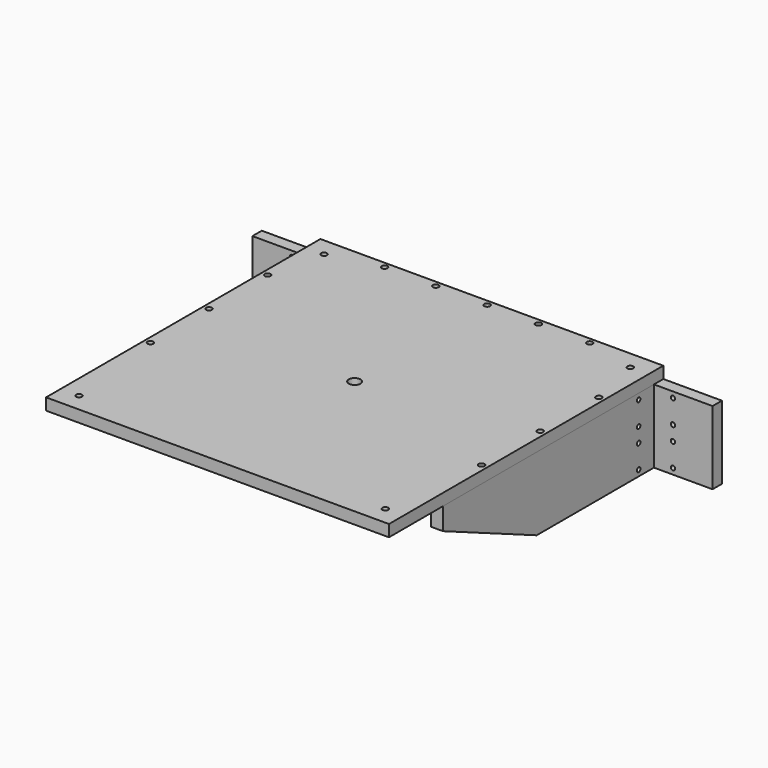
from build123d import *

# Parameters (mm, degrees)
F0_W      = 234
F0_H      = 234
F1_DEPTH  = 8
F2_D      = 4
F3_D      = 8
F4_D      = 4
F6_DEPTH  = 8
F7_D      = 4
F8_D      = 8
F9_D      = 8
F10_D     = 3
F12_DEPTH = 8
F13_D     = 3


with BuildPart() as f1:
    # F0 (on Top) → F1 (new body)
    with BuildSketch(Plane.XY):
        Rectangle(F0_W, F0_H)
    extrude(amount=F1_DEPTH)

    # F2 (through all)
    with Locations(Plane(origin=(0, 0, 0), x_dir=(1, 0, 0), z_dir=(0, 0, -1))):
        with Locations((-104.5, -104.5), (104.5, -104.5), (104.5, 104.5), (-104.5, 104.5)):
            Hole(F2_D / 2)

    # F3 (through all)
    with Locations(Plane(origin=(0, 0, 0), x_dir=(1, 0, 0), z_dir=(0, 0, -1))):
        with Locations((0, 0)):
            Hole(F3_D / 2)

    # F4 (through all)
    with Locations(Plane(origin=(0, 0, 0), x_dir=(1, 0, 0), z_dir=(0, 0, -1))):
        with Locations((113, 33), (113, -17), (113, -67), (70, -113), (35, -113), (0, -113), (-35, -113), (-70, -113), (-113, -67), (-113, -17), (-113, 33)):
            Hole(F4_D / 2)


with BuildPart() as f6:
    # F5 (on face) → F6 (new body)
    with BuildSketch(Plane(origin=(0, 117, 0), x_dir=(-1, 0, 0), z_dir=(0, 1, 0))):
        Polygon((-157, 0), (-157, -50), (157, -50), (157, 0), (117, 0), (-117, 0), align=None)
    extrude(amount=-F6_DEPTH)

    # F7 (through all)
    with Locations(Plane(origin=(0, 117, 0), x_dir=(-1, 0, 0), z_dir=(0, 1, 0))):
        with Locations((-113, -13), (-113, -25), (-113, -37), (113, -37), (113, -25), (113, -13)):
            Hole(F7_D / 2)

    # F8 (through all)
    with Locations(Plane(origin=(0, 117, 0), x_dir=(-1, 0, 0), z_dir=(0, 1, 0))):
        with Locations((-55, -25), (55, -25)):
            Hole(F8_D / 2)

    # F9 (through all)
    with Locations(Plane(origin=(0, 117, 0), x_dir=(-1, 0, 0), z_dir=(0, 1, 0))):
        with Locations((-88, -25), (88, -25)):
            Hole(F9_D / 2)

    # F10 (through all)
    with Locations(Plane(origin=(0, 117, 0), x_dir=(-1, 0, 0), z_dir=(0, 1, 0))):
        with Locations((-130, -4), (-130, -20), (-130, -30), (-130, -46), (-106, -4), (-106, -20), (-106, -30), (-106, -46), (106, -4), (106, -20), (106, -30), (106, -46), (130, -46), (130, -30), (130, -20), (130, -4)):
            Hole(F10_D / 2)


with BuildPart() as f12:
    # F11 (on face) → F12 (new body)
    with BuildSketch(Plane.YZ.offset(117)):
        Polygon((9, -50), (109, -50), (109, 0), (-71, 0), (-71, -15), align=None)
    extrude(amount=-F12_DEPTH)

    # F13 (through all)
    with Locations(Plane.YZ.offset(117)):
        with Locations((96, -4), (96, -20), (96, -30), (96, -46)):
            Hole(F13_D / 2)


solid = Compound([f1.part, f6.part, f12.part])
